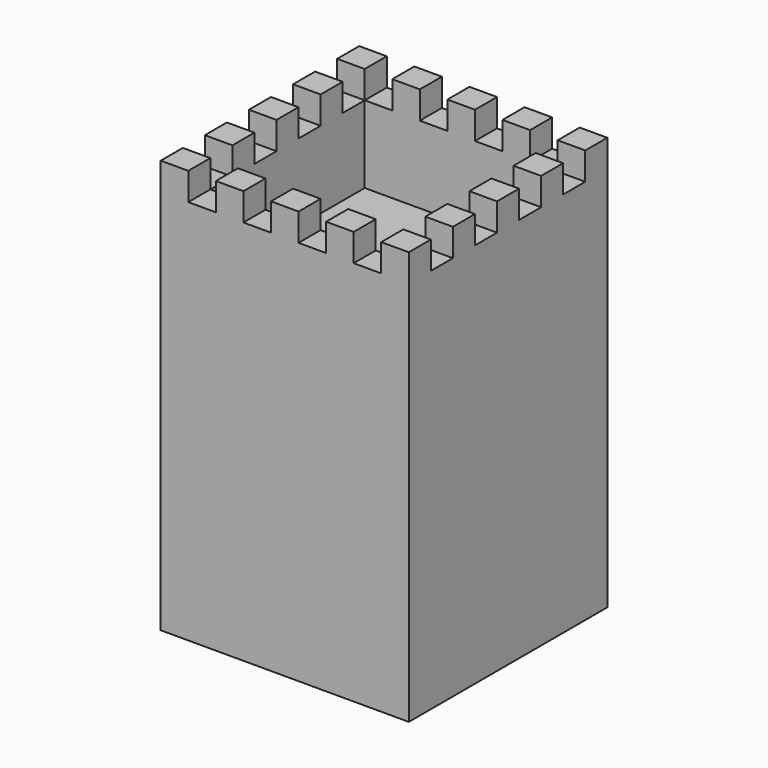
from build123d import *

# Parameters (mm, degrees)
BOX001_W                 = 110
BOX001_H                 = 10
BOX001_DEPTH             = 10
ARRAY001_Y_COUNT         = 4
ARRAY001_Y_PITCH         = 20
ARRAY001_PLACEMENT_ANGLE = 90
BOX_W                    = 110
BOX_H                    = 10
BOX_DEPTH                = 10
ARRAY_Y_COUNT            = 4
ARRAY_Y_PITCH            = 20
BOX003_W                 = 70
BOX003_H                 = 70
BOX003_DEPTH             = 60
BOX002_W                 = 90
BOX002_H                 = 90
BOX002_DEPTH             = 150


with BuildPart() as array001:
    # Box001 → Box001 (new body)
    with BuildSketch(Plane.XY):
        with Locations((55, 5)):
            Rectangle(BOX001_W, BOX001_H)
    extrude(amount=BOX001_DEPTH)

    # Array001 Y: Array001 ×4


with BuildPart() as array001_1:
    add(array001.part)
    with Locations(*[(0, i * ARRAY001_Y_PITCH, 0) for i in range(1, ARRAY001_Y_COUNT)]):
        add(array001.part)


with BuildPart() as array001_2:
    # Array001 placement: moved
    add(array001_1.part.moved(Location((90, -20, 0))).rotate(Axis((90, -20, 0), (0, 0, 1)), ARRAY001_PLACEMENT_ANGLE))


with BuildPart() as fusion:
    # Box → Box (new body)
    with BuildSketch(Plane.XY):
        with Locations((55, 5)):
            Rectangle(BOX_W, BOX_H)
    extrude(amount=BOX_DEPTH)

    # Array Y: Fusion ×4


with BuildPart() as fusion_1:
    add(fusion.part)
    with Locations(*[(0, i * ARRAY_Y_PITCH, 0) for i in range(1, ARRAY_Y_COUNT)]):
        add(fusion.part)

    # Fusion: union Array001
    add(array001_2.part)


with BuildPart() as fusion_2:
    # Fusion placement: moved
    add(fusion_1.part.moved(Location((-10, 10, 140))))


with BuildPart() as cub002:
    # Box003 → Box003 (new body)
    with BuildSketch(Plane(origin=(10, 10, 112), x_dir=(1, 0, 0), z_dir=(0, 0, 1))):
        with Locations((35, 35)):
            Rectangle(BOX003_W, BOX003_H)
    extrude(amount=BOX003_DEPTH)


with BuildPart() as obj1:
    # Box002 → Box002 (new body)
    with BuildSketch(Plane.XY):
        with Locations((45, 45)):
            Rectangle(BOX002_W, BOX002_H)
    extrude(amount=BOX002_DEPTH)

    # Cut: cut Cub002
    add(cub002.part, mode=Mode.SUBTRACT)

    # Cut001: cut Fusion
    add(fusion_2.part, mode=Mode.SUBTRACT)


solid = obj1.part
